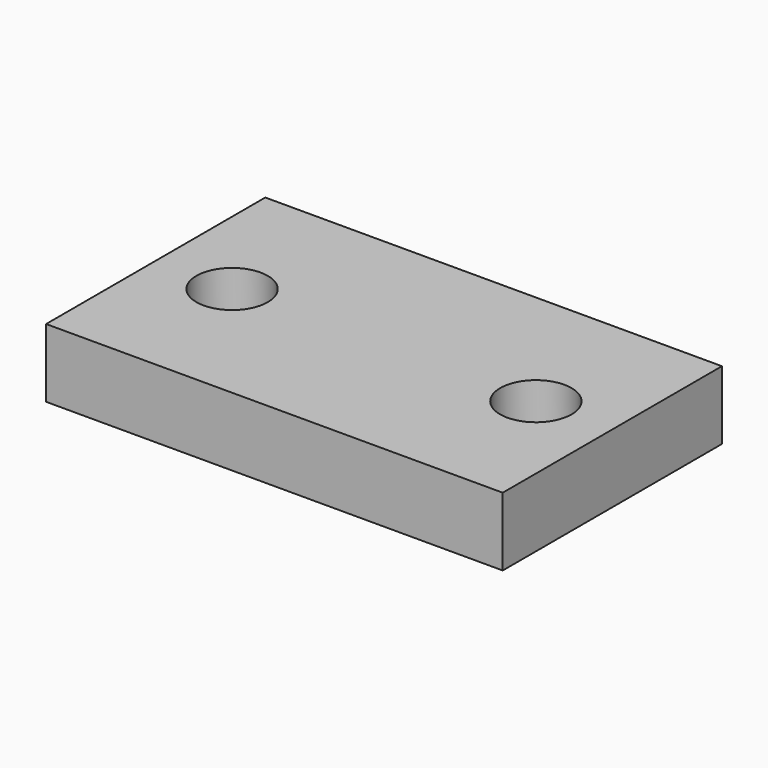
from build123d import *

# Parameters (mm, degrees)
F0_W     = 50.8
F0_H     = 30.48
F1_DEPTH = 7.62
F2_R     = 3.96875
F3_DEPTH = 25.4


with BuildPart() as f1:
    # F0 (on Top) → F1 (new body)
    with BuildSketch(Plane.XY):
        Rectangle(F0_W, F0_H)
    extrude(amount=F1_DEPTH)

    # F2 (on face) → F3 (cut)
    with BuildSketch(Plane.XY.offset(7.62)):
        with BuildLine():
            ThreePointArc((-20.8661, 0), (-16.89735, -3.96875), (-12.9286, 0))
            ThreePointArc((-12.9286, 0), (-16.89735, 3.96875), (-20.8661, 0))
        make_face()
        with Locations((16.89735, 0)):
            Circle(F2_R)
    extrude(amount=-F3_DEPTH, mode=Mode.SUBTRACT)


solid = f1.part
